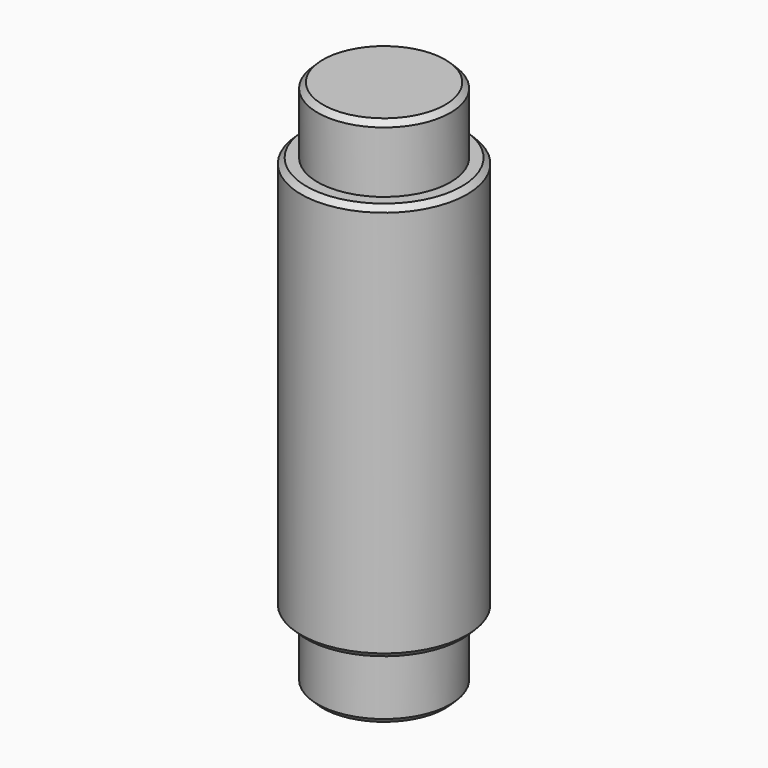
from build123d import *

# Parameters (mm, degrees)
F0_R     = 3.96875
F1_DEPTH = 19.05
F2_R     = 3.175
F3_DEPTH = 3.175
F4_R     = 3.175
F5_DEPTH = 3.175
F6_SIZE  = 0.254


with BuildPart() as f1:
    # F0 (on Top) → F1 (new body)
    with BuildSketch(Plane.XY):
        Circle(F0_R)
    extrude(amount=F1_DEPTH)

    # F2 (on Top) → F3 (join)
    with BuildSketch(Plane.XY):
        Circle(F2_R)
    extrude(amount=-F3_DEPTH)

    # F4 (on face) → F5 (join)
    with BuildSketch(Plane.XY.offset(19.05)):
        Circle(F4_R)
    extrude(amount=F5_DEPTH)

    # F6
    f6_edges = [f1.edges().sort_by_distance(p)[0] for p in [
        (-3.175, 0, 22.225),
        (-3.96875, 0, 19.05),
        (-3.175, 0, -3.175),
        (-3.96875, 0, 0),
    ]]
    chamfer(f6_edges, length=F6_SIZE)


solid = f1.part
